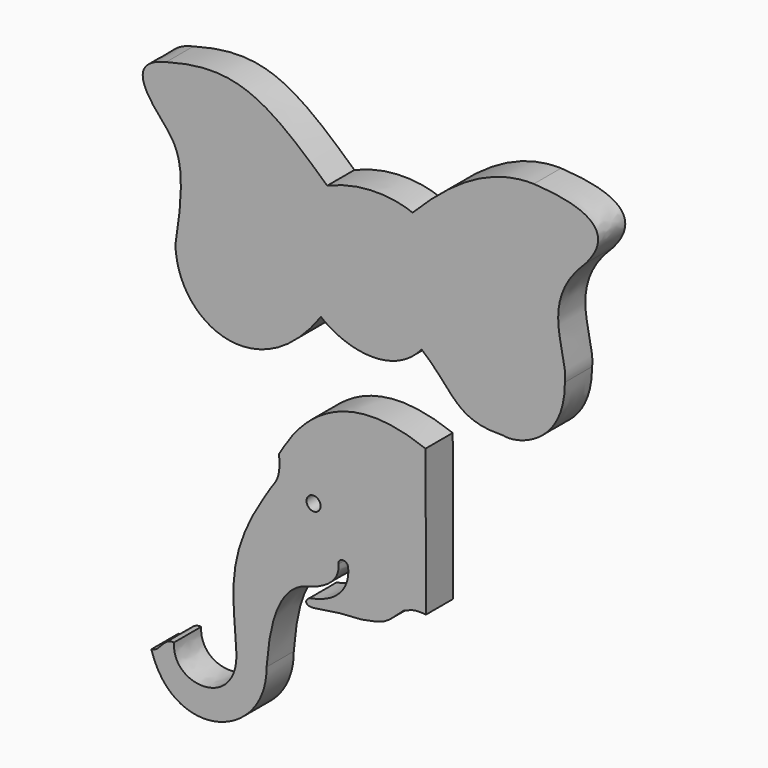
from build123d import *

# Parameters (mm, degrees)
F0_R     = 2.482682
F1_DEPTH = 12


with BuildPart() as f1:
    # F0 (on Front) → F1 (new body)
    with BuildSketch(Plane.XZ):
        with BuildLine():
            add(Edge.make_bspline(
                [(-71.12636, -54.101607), (-58.428441, -48.642112), (-46.649857, -50.322257), (-41.006338, -52.714616)],
                knots=[0, 0, 0, 0, 30.15194, 30.15194, 30.15194, 30.15194], degree=3))
            add(Edge.make_bspline(
                [(-127.976823, -34.166812), (-103.445357, -27.380814), (-92.80645, -34.273334), (-71.12636, -54.101607)],
                knots=[0, 0, 0, 0, 60.244263, 60.244263, 60.244263, 60.244263], degree=3))
            add(Edge.make_bspline(
                [(-129.692707, -52.534002), (-135.636478, -45.765712), (-141.618297, -37.449518), (-127.976823, -34.166812)],
                knots=[0, 0, 0, 0, 18.447166, 18.447166, 18.447166, 18.447166], degree=3))
            add(Edge.make_bspline(
                [(-124.716592, -89.866787), (-120.372589, -63.011825), (-123.929403, -59.281508), (-129.692707, -52.534002)],
                knots=[0, 0, 0, 0, 37.66296, 37.66296, 37.66296, 37.66296], degree=3))
            add(Edge.make_bspline(
                [(-73.34189, -95.583062), (-95.115456, -126.364396), (-123.981745, -113.648796), (-124.716592, -89.866787)],
                knots=[0, 0, 0, 0, 51.691739, 51.691739, 51.691739, 51.691739], degree=3))
            add(Edge.make_bspline(
                [(-37.787983, -94.175354), (-47.736767, -105.94183), (-63.93146, -103.169765), (-73.34189, -95.583062)],
                knots=[0, 0, 0, 0, 35.581764, 35.581764, 35.581764, 35.581764], degree=3))
            add(Edge.make_bspline(
                [(-8.74165, -111.555661), (-26.116133, -112.047875), (-26.116133, -103.804632), (-37.787983, -94.175354)],
                knots=[0, 0, 0, 0, 33.849144, 33.849144, 33.849144, 33.849144], degree=3))
            add(Edge.make_bspline(
                [(12.806772, -87.937936), (12.819949, -108.976523), (-5.027692, -112.690483), (-8.74165, -111.555661)],
                knots=[0, 0, 0, 0, 31.97079, 31.97079, 31.97079, 31.97079], degree=3))
            add(Edge.make_bspline(
                [(20.307293, -48.398496), (2.858819, -64.922817), (14.106442, -78.130892), (12.806772, -87.937936)],
                knots=[0, 0, 0, 0, 40.244566, 40.244566, 40.244566, 40.244566], degree=3))
            add(Edge.make_bspline(
                [(1.843561, -29.823521), (34.89311, -31.53218), (22.796147, -45.271948), (20.307293, -48.398496)],
                knots=[0, 0, 0, 0, 26.190439, 26.190439, 26.190439, 26.190439], degree=3))
            add(Edge.make_bspline(
                [(-41.006338, -52.714616), (-23.349135, -34.648479), (-10.061553, -29.605528), (1.843561, -29.823521)],
                knots=[0, 0, 0, 0, 48.581026, 48.581026, 48.581026, 48.581026], degree=3))
        make_face()
        with BuildLine():
            Line((-36.225362, -176.082114), (-36.407538, -124.533342))
            add(Edge.make_bspline(
                [(-36.407538, -124.533342), (-72.480577, -110.592157), (-85.808396, -139.664307), (-88.0847, -142.941165)],
                knots=[0, 0, 0, 0, 54.857789, 54.857789, 54.857789, 54.857789], degree=3))
            add(Edge.make_bspline(
                [(-88.0847, -142.941165), (-87.453275, -152.473873), (-89.633037, -151.340918), (-93.726896, -158.820441)],
                knots=[0, 0, 0, 0, 16.851878, 16.851878, 16.851878, 16.851878], degree=3))
            add(Edge.make_bspline(
                [(-93.726896, -158.820441), (-107.418011, -180.484537), (-104.141617, -192.549328), (-103.282584, -208.29365)],
                knots=[0, 0, 0, 0, 50.387593, 50.387593, 50.387593, 50.387593], degree=3))
            add(Edge.make_bspline(
                [(-103.282584, -208.29365), (-101.283793, -228.266485), (-126.139562, -227.957859), (-125.211084, -213.676676)],
                knots=[0, 0, 0, 0, 22.57955, 22.57955, 22.57955, 22.57955], degree=3))
            add(Edge.make_bspline(
                [(-125.211084, -213.676676), (-129.077386, -213.311934), (-130.025722, -218.19952), (-133.23548, -218.418365)],
                knots=[0, 0, 0, 0, 9.320652, 9.320652, 9.320652, 9.320652], degree=3))
            add(Edge.make_bspline(
                [(-133.23548, -218.418365), (-125.391055, -244.501648), (-92.378079, -234.700922), (-92.529905, -210.685762)],
                knots=[0, 0, 0, 0, 41.433525, 41.433525, 41.433525, 41.433525], degree=3))
            add(Edge.make_bspline(
                [(-92.529905, -210.685762), (-91.922687, -205.700118), (-91.346807, -183.447118), (-77.299349, -180.748045)],
                knots=[0, 0, 0, 0, 33.589235, 33.589235, 33.589235, 33.589235], degree=3))
            add(Edge.make_bspline(
                [(-77.299349, -180.748045), (-69.556281, -178.404093), (-66.703469, -174.492564), (-67.198433, -170.509711)],
                knots=[0, 0, 0, 0, 14.38235, 14.38235, 14.38235, 14.38235], degree=3))
            add(Edge.make_bspline(
                [(-67.198433, -170.509711), (-67.288168, -168.147057), (-63.879341, -168.061122), (-63.717723, -170.473576)],
                knots=[0, 0, 0, 0, 3.480898, 3.480898, 3.480898, 3.480898], degree=3))
            add(Edge.make_bspline(
                [(-63.717723, -170.473576), (-63.590482, -171.825111), (-62.715396, -181.639284), (-77.25884, -184.313014)],
                knots=[0, 0, 0, 0, 19.362126, 19.362126, 19.362126, 19.362126], degree=3))
            add(Edge.make_bspline(
                [(-77.25884, -184.313014), (-79.468457, -185.470457), (-78.97826, -187.653788), (-74.706644, -186.743677)],
                knots=[0, 0, 0, 0, 3.524461, 3.524461, 3.524461, 3.524461], degree=3))
            add(Edge.make_bspline(
                [(-74.706644, -186.743677), (-68.510663, -185.666003), (-64.290475, -185.174857), (-58.902549, -185.011277)],
                knots=[0, 0, 0, 0, 15.898761, 15.898761, 15.898761, 15.898761], degree=3))
            add(Edge.make_bspline(
                [(-58.902549, -185.011277), (-49.408777, -183.57144), (-49.684819, -182.099215), (-44.102641, -177.375837)],
                knots=[0, 0, 0, 0, 16.653445, 16.653445, 16.653445, 16.653445], degree=3))
            add(Edge.make_bspline(
                [(-44.102641, -177.375837), (-39.803862, -175.561603), (-39.41348, -176.017051), (-36.225362, -176.082114)],
                knots=[0, 0, 0, 0, 7.98281, 7.98281, 7.98281, 7.98281], degree=3))
        make_face()
        with Locations((-75.950864, -154.454722)):
            Circle(F0_R, mode=Mode.SUBTRACT)
    extrude(amount=F1_DEPTH)


solid = f1.part
